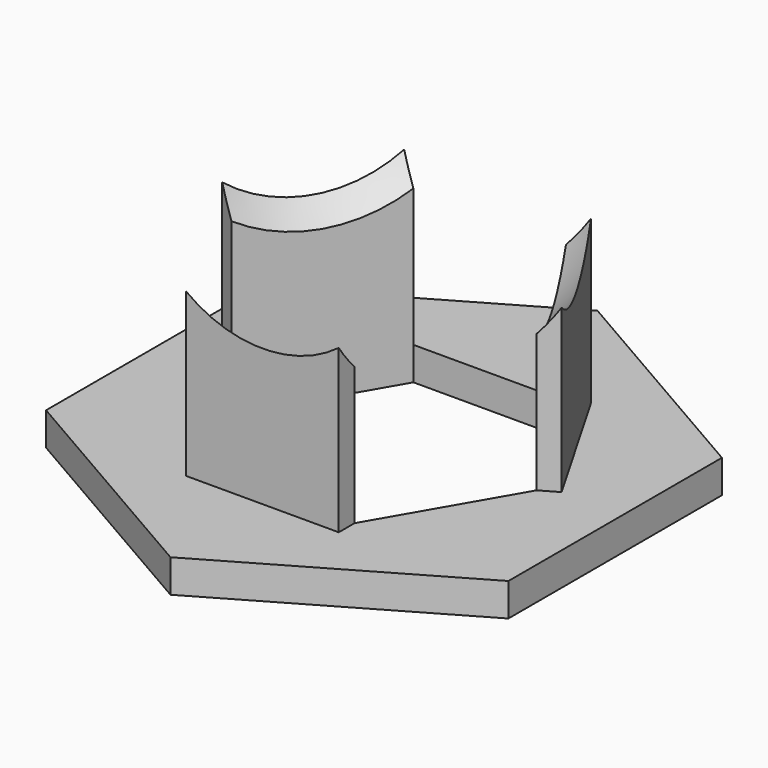
from build123d import *

# Parameters (mm, degrees)
F1_DEPTH = 5
F2_W     = 23.09401
F2_H     = 3
F3_DEPTH = 40


with BuildPart() as f1:
    # F0 (on Top) → F1 (new body)
    with BuildSketch(Plane.XY):
        Polygon((35, -20.207259), (35, 20.207259), (0, 40.414519), (-35, 20.207259), (-35, -20.207259), (0, -40.414519), align=None)
        Polygon((-23.094011, 0), (-11.547005, 20), (11.547005, 20), (23.094011, 0), (11.547005, -20), (-11.547005, -20), align=None, mode=Mode.SUBTRACT)
    extrude(amount=F1_DEPTH)

    # F2 (on face) → F3 (join)
    with BuildSketch(Plane.XY.offset(5)):
        Polygon((-23.094011, 0), (-11.547005, 20), (-14.145082, 21.5), (-25.692087, 1.5), align=None)
        Polygon((14.145082, 21.5), (11.547005, 20), (23.094011, 0), (25.692087, 1.5), align=None)
        with Locations((0, -21.5)):
            Rectangle(F2_W, F2_H)
    extrude(amount=F3_DEPTH)

    # F4 (on face) → F5 (revolve, cut)
    with BuildSketch(Plane.XY.offset(45)):
        with BuildLine():
            Line((0, -30), (0, 30))
            ThreePointArc((0, 30), (-30, 0), (0, -30))
        make_face()
    revolve(axis=Axis((0, 0, 45), (0, -1, 0)), mode=Mode.SUBTRACT)


solid = f1.part
